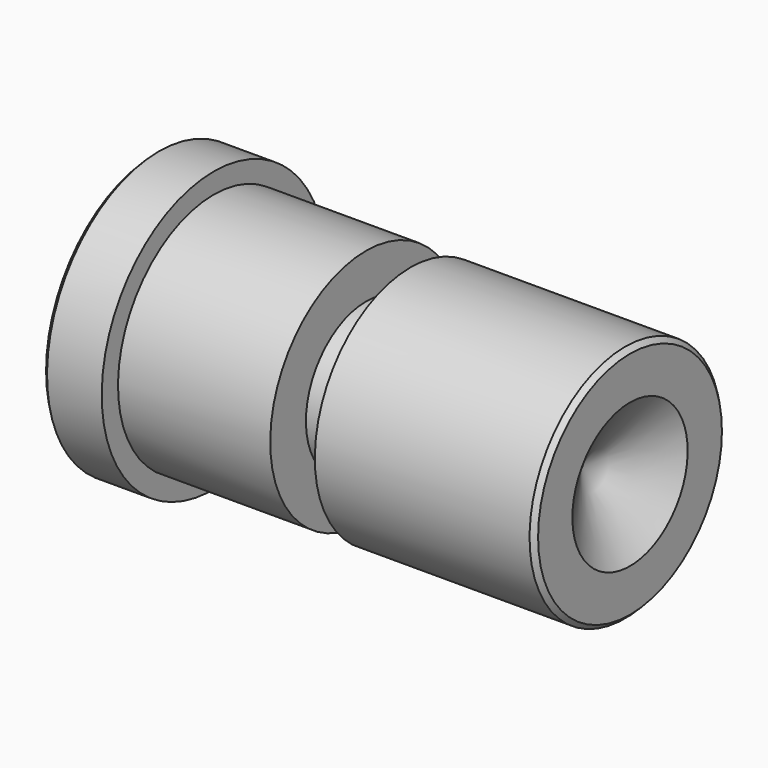
from build123d import *

# Parameters (mm, degrees)
F2_SIZE = 0.254


with BuildPart() as f1:
    # F0 (on Front) → F1 (revolve)
    with BuildSketch(Plane.XZ):
        Polygon((11.303, 6.3881), (3.175, 6.3881), (3.175, 7.47395), (0, 7.47395), (0, 0), (22.86, 0), (25.4, 3.8481), (25.4, 6.3881), (13.68425, 6.3881), (13.68425, 4.00685), (11.303, 4.00685), align=None)
    revolve(axis=Axis((11.43, 0, 0), (1, 0, 0)))

    # F2
    f2_edges = [f1.edges().sort_by_distance(p)[0] for p in [
        (0, 0, -7.47395),
        (25.4, 0, -6.3881),
    ]]
    chamfer(f2_edges, length=F2_SIZE)


solid = f1.part
